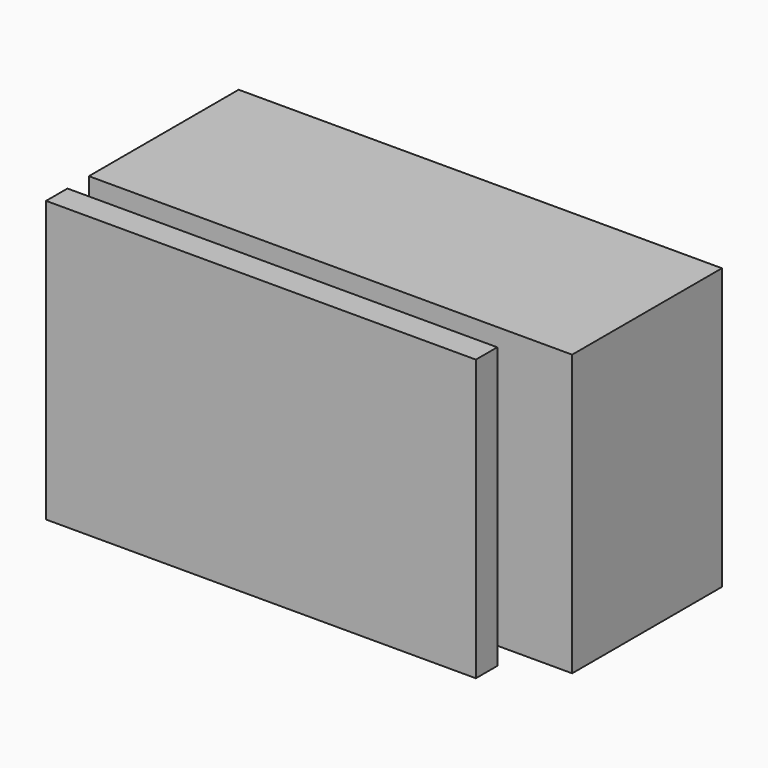
from build123d import *

# Parameters (mm, degrees)
BOX_W             = 12.14
BOX_H             = 16.14
BOX_DEPTH         = 10.98
BOX001_W          = 32.14
BOX001_H          = 2
BOX001_DEPTH      = 20.98
CYLINDER_R        = 2.5
CYLINDER_DEPTH    = 4.2
CYLINDER001_R     = 2.5
CYLINDER001_DEPTH = 4.2
BOX007_W          = 18.14
BOX007_H          = 4
BOX007_DEPTH      = 14.98
BOX006_W          = 36.14
BOX006_H          = 4
BOX006_DEPTH      = 20.98
BOX004_W          = 26.14
BOX004_H          = 10
BOX004_DEPTH      = 4
BOX003_W          = 6.14
BOX003_H          = 10
BOX003_DEPTH      = 4.98
BOX005_W          = 12.14
BOX005_H          = 16.14
BOX005_DEPTH      = 10.98
BOX002_W          = 36.14
BOX002_H          = 16
BOX002_DEPTH      = 20.98


with BuildPart() as usb:
    # Box → Box (new body)
    with BuildSketch(Plane(origin=(12, 0, 5), x_dir=(1, 0, 0), z_dir=(0, 0, 1))):
        with Locations((6.07, 8.07)):
            Rectangle(BOX_W, BOX_H)
    extrude(amount=BOX_DEPTH)


with BuildPart() as panel:
    # Box001 → Box001 (new body)
    with BuildSketch(Plane.XY):
        with Locations((16.07, 1)):
            Rectangle(BOX001_W, BOX001_H)
    extrude(amount=BOX001_DEPTH)


with BuildPart() as cylinder:
    # Cylinder → Cylinder (new body)
    with BuildSketch(Plane(origin=(5, 4, 10.49), x_dir=(1, 0, 0), z_dir=(0, 1, 0))):
        Circle(CYLINDER_R)
    extrude(amount=CYLINDER_DEPTH)


with BuildPart() as cylinder001:
    # Cylinder001 → Cylinder001 (new body)
    with BuildSketch(Plane(origin=(31.14, 4, 10.49), x_dir=(1, 0, 0), z_dir=(0, 1, 0))):
        Circle(CYLINDER001_R)
    extrude(amount=CYLINDER001_DEPTH)


with BuildPart() as cube005:
    # Box007 → Box007 (new body)
    with BuildSketch(Plane(origin=(9, 0, 3), x_dir=(1, 0, 0), z_dir=(0, 0, 1))):
        with Locations((9.07, 2)):
            Rectangle(BOX007_W, BOX007_H)
    extrude(amount=BOX007_DEPTH)


with BuildPart() as cut003:
    # Box006 → Box006 (new body)
    with BuildSketch(Plane.XY):
        with Locations((18.07, 2)):
            Rectangle(BOX006_W, BOX006_H)
    extrude(amount=BOX006_DEPTH)

    # Cut003: cut Cube005
    add(cube005.part, mode=Mode.SUBTRACT)


with BuildPart() as cube003:
    # Box004 → Box004 (new body)
    with BuildSketch(Plane(origin=(5, 16.14, 8.5), x_dir=(1, 0, 0), z_dir=(0, 0, 1))):
        with Locations((13.07, 5)):
            Rectangle(BOX004_W, BOX004_H)
    extrude(amount=BOX004_DEPTH)


with BuildPart() as cube002:
    # Box003 → Box003 (new body)
    with BuildSketch(Plane(origin=(15, 16.14, 8), x_dir=(1, 0, 0), z_dir=(0, 0, 1))):
        with Locations((3.07, 5)):
            Rectangle(BOX003_W, BOX003_H)
    extrude(amount=BOX003_DEPTH)


with BuildPart() as cube004:
    # Box005 → Box005 (new body)
    with BuildSketch(Plane(origin=(12, 0, 5), x_dir=(1, 0, 0), z_dir=(0, 0, 1))):
        with Locations((6.07, 8.07)):
            Rectangle(BOX005_W, BOX005_H)
    extrude(amount=BOX005_DEPTH)


with BuildPart() as cut004:
    # Box002 → Box002 (new body)
    with BuildSketch(Plane(origin=(0, 2, 0), x_dir=(1, 0, 0), z_dir=(0, 0, 1))):
        with Locations((18.07, 8)):
            Rectangle(BOX002_W, BOX002_H)
    extrude(amount=BOX002_DEPTH)

    # Cut: cut Cube004
    add(cube004.part, mode=Mode.SUBTRACT)

    # Cut001: cut Cube002
    add(cube002.part, mode=Mode.SUBTRACT)

    # Cut002: cut Cube003
    add(cube003.part, mode=Mode.SUBTRACT)

    # Cut004: cut Cut003
    add(cut003.part, mode=Mode.SUBTRACT)


solid = Compound([usb.part, panel.part, cylinder.part, cylinder001.part, cut004.part])
